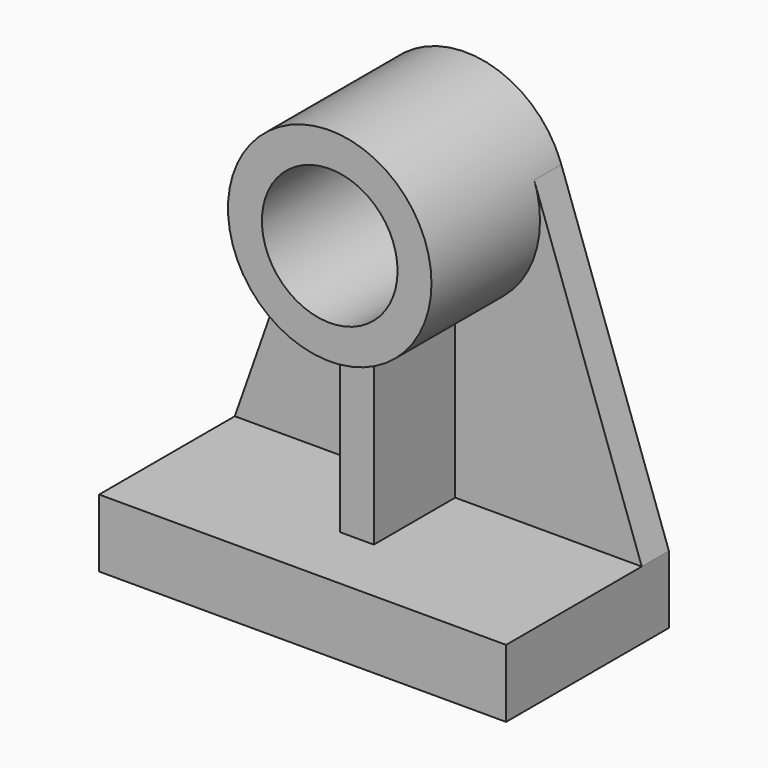
from build123d import *

# Parameters (mm, degrees)
F1_DEPTH = 152.4
F2_R     = 76.2
F2_R_2   = 50.8
F3_DEPTH = 127
F5_DEPTH = 101.6
F7_DEPTH = 25.4


with BuildPart() as f1:
    # F0 (on Front) → F1 (new body)
    with BuildSketch(Plane.XZ):
        Polygon((-152.4, -25.4), (152.4, -25.4), (152.4, 25.4), (12.7, 25.4), (-12.7, 25.4), (-152.4, 25.4), align=None)
    extrude(amount=F1_DEPTH)


with BuildPart() as f3:
    # F2 (on Front) → F3 (new body)
    with BuildSketch(Plane.XZ):
        with Locations((0, 228.6)):
            Circle(F2_R)
        with Locations((0, 228.6)):
            Circle(F2_R_2, mode=Mode.SUBTRACT)
    extrude(amount=F3_DEPTH)


with BuildPart() as f5:
    # F4 (on Front) → F5 (new body)
    with BuildSketch(Plane.XZ):
        with BuildLine():
            Line((-12.7, 153.465787), (-12.7, 25.4))
            Line((-12.7, 25.4), (12.7, 25.4))
            Line((12.7, 25.4), (12.7, 153.465787))
            ThreePointArc((12.7, 153.465787), (0, 152.4), (-12.7, 153.465787))
        make_face()
    extrude(amount=F5_DEPTH)


with BuildPart() as f7:
    # F6 (on Front) → F7 (new body)
    with BuildSketch(Plane.XZ):
        with BuildLine():
            ThreePointArc((71.868134, 253.9261), (75.109226, 241.446949), (76.2, 228.6))
            ThreePointArc((76.2, 228.6), (-12.846949, 153.490774), (-71.868134, 253.9261))
            Line((-71.868134, 253.9261), (-152.4, 25.4))
            Line((-152.4, 25.4), (152.4, 25.4))
            Line((152.4, 25.4), (71.868134, 253.9261))
        make_face()
    extrude(amount=F7_DEPTH)


solid = Compound([f1.part, f3.part, f5.part, f7.part])
